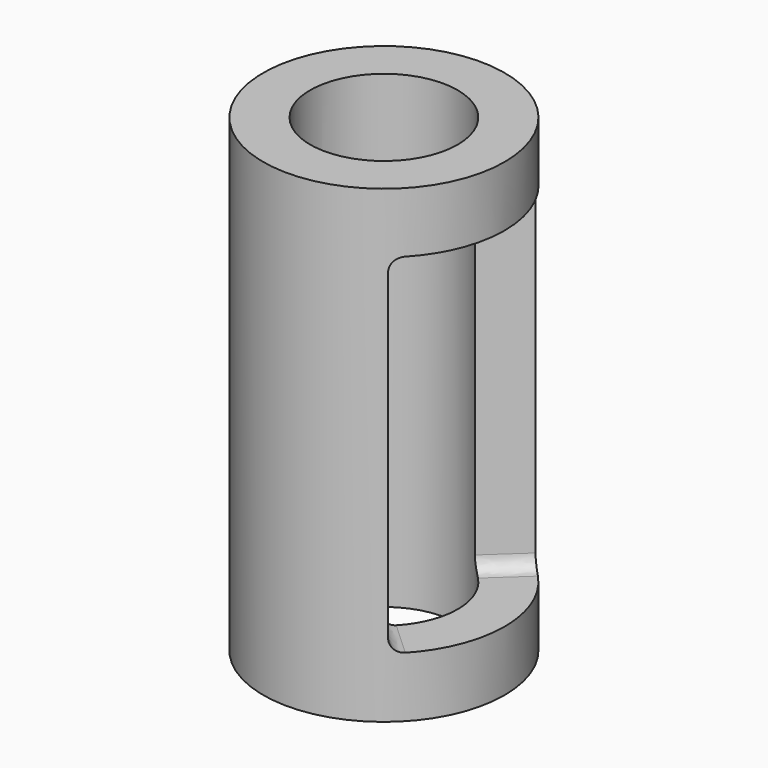
from build123d import *

# Parameters (mm, degrees)
F0_R     = 9
F0_R_2   = 5.5
F1_DEPTH = 35
F3_DEPTH = 25
F4_W     = 3
F4_H     = 26
F6_W     = 40
F6_H     = 26
F8_R     = 1


with BuildPart() as f1:
    # F0 (on Top) → F1 (new body)
    with BuildSketch(Plane.XY):
        Circle(F0_R)
        Circle(F0_R_2, mode=Mode.SUBTRACT)
    extrude(amount=F1_DEPTH)

    # F2 (on Right) → F3 (cut)
    with BuildSketch(Plane.YZ):
        with BuildLine():
            ThreePointArc((0, 4.5), (0.7071067812, 4.7928932188), (1, 5.5))
            Line((1, 5.5), (1, 29.5))
            ThreePointArc((1, 29.5), (0.7071067812, 30.2071067812), (0, 30.5))
            ThreePointArc((0, 30.5), (-0.7071067812, 30.2071067812), (-1, 29.5))
            Line((-1, 29.5), (-1, 5.5))
            ThreePointArc((-1, 5.5), (-0.7071067812, 4.7928932188), (0, 4.5))
        make_face()
    extrude(amount=-F3_DEPTH, mode=Mode.SUBTRACT)

    # F4 (on Right) → F7 section 0
    with BuildSketch(Plane.YZ):
        with Locations((0, 17.5)):
            Rectangle(F4_W, F4_H)
    # F6 (on offset) → F7 section 1
    with BuildSketch(Plane.YZ.offset(20)):
        with Locations((0, 17.5)):
            Rectangle(F6_W, F6_H)
    loft(mode=Mode.SUBTRACT)

    # F8
    f8_edges = [f1.edges().sort_by_distance(p)[0] for p in [
        (4.508802, -5.670642, 30.5),
        (4.508802, 5.670642, 30.5),
        (4.508802, 5.670642, 4.5),
        (4.508802, -5.670642, 4.5),
    ]]
    fillet(f8_edges, radius=F8_R)


solid = f1.part
